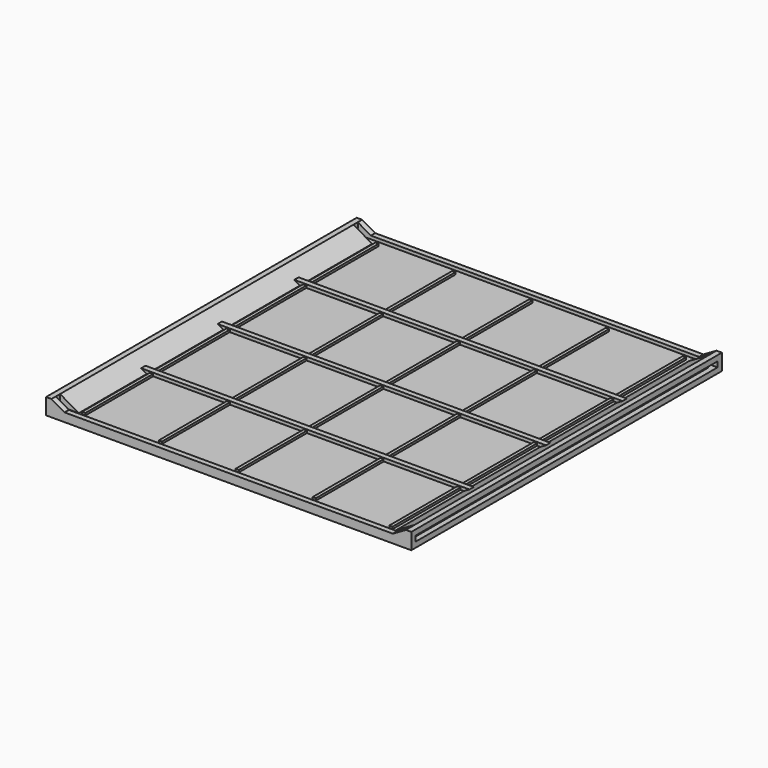
from build123d import *

# Parameters (mm, degrees)
F1_DEPTH  = 180
F4_W      = 2.5
F4_H      = 4
F5_DEPTH  = 164
F6_W      = 2.5
F6_H      = 2.5
F7_DEPTH  = 7.5
F8_W      = 10
F8_H      = 2.5
F9_DEPTH  = 25
F10_W     = 1.5
F10_H     = 1
F11_DEPTH = 170


with BuildPart() as f1:
    # F0 (on Front) → F1 (new body)
    with BuildSketch(Plane.XZ):
        Polygon((-149.2392462472, 9.4979269803), (-64.5789922093, 9.4979269803), (20.0812618285, 9.4979269803), (20.0812618285, 11.9979269803), (17.5812618285, 11.9979269803), (17.5812618285, 14.4979269803), (20.0812618285, 14.4979269803), (20.0812618285, 16.9979269803), (17.5812618285, 16.9979269803), (8.9210077907, 11.9979269803), (-64.5789922093, 11.9979269803), (-138.0789922093, 11.9979269803), (-146.7392462472, 16.9979269803), (-149.2392462472, 16.9979269803), (-149.2392462472, 14.4979269803), (-146.7392462472, 14.4979269803), (-146.7392462472, 11.9979269803), (-149.2392462472, 11.9979269803), align=None)
    extrude(amount=-F1_DEPTH)

    # F4 (on offset) → F5 (join)
    with BuildSketch(Plane(origin=(-146.7392462472, 0, 0), x_dir=(0, -1, 0), z_dir=(-1, 0, 0))):
        with Locations((-178.75, 11.4979269803)):
            Rectangle(F4_W, F4_H)
        with Locations((-134.375, 11.4979269803)):
            Rectangle(F4_W, F4_H)
        with Locations((-90, 11.4979269803)):
            Rectangle(F4_W, F4_H)
        with Locations((-45.625, 11.4979269803)):
            Rectangle(F4_W, F4_H)
        with Locations((-1.25, 11.4979269803)):
            Rectangle(F4_W, F4_H)
    extrude(amount=-F5_DEPTH)

    # F6 (on face) → F7 (join)
    with BuildSketch(Plane(origin=(0, 0, 9.4979269803), x_dir=(1, 0, 0), z_dir=(0, 0, -1))):
        with Locations((-147.9892462472, -1.25)):
            Rectangle(F6_W, F6_H)
        with Locations((18.8312618285, -1.25)):
            Rectangle(F6_W, F6_H)
        with Locations((18.8312618285, -178.75)):
            Rectangle(F6_W, F6_H)
        with Locations((-147.9892462472, -178.75)):
            Rectangle(F6_W, F6_H)
    extrude(amount=-F7_DEPTH)

    # F8 (on face) → F9 (cut)
    with BuildSketch(Plane.XY.offset(11.9979269803)):
        with Locations((-141.7392462472, 3.75)):
            Rectangle(F8_W, F8_H)
        with Locations((-141.7392462472, 176.25)):
            Rectangle(F8_W, F8_H)
        with Locations((12.5812618285, 176.25)):
            Rectangle(F8_W, F8_H)
        with Locations((12.5812618285, 3.75)):
            Rectangle(F8_W, F8_H)
    extrude(amount=F9_DEPTH, mode=Mode.SUBTRACT)

    # F10 (on face) → F11 (join)
    with BuildSketch(Plane(origin=(0, 175, 0), x_dir=(-1, 0, 0), z_dir=(0, 1, 0))):
        with Locations((135.8289922093, 12.4979269803)):
            Rectangle(F10_W, F10_H)
        with Locations((100.2039922093, 12.4979269803)):
            Rectangle(F10_W, F10_H)
        with Locations((64.5789922093, 12.4979269803)):
            Rectangle(F10_W, F10_H)
        with Locations((28.9539922093, 12.4979269803)):
            Rectangle(F10_W, F10_H)
        with Locations((-6.6710077907, 12.4979269803)):
            Rectangle(F10_W, F10_H)
    extrude(amount=-F11_DEPTH)


solid = f1.part
